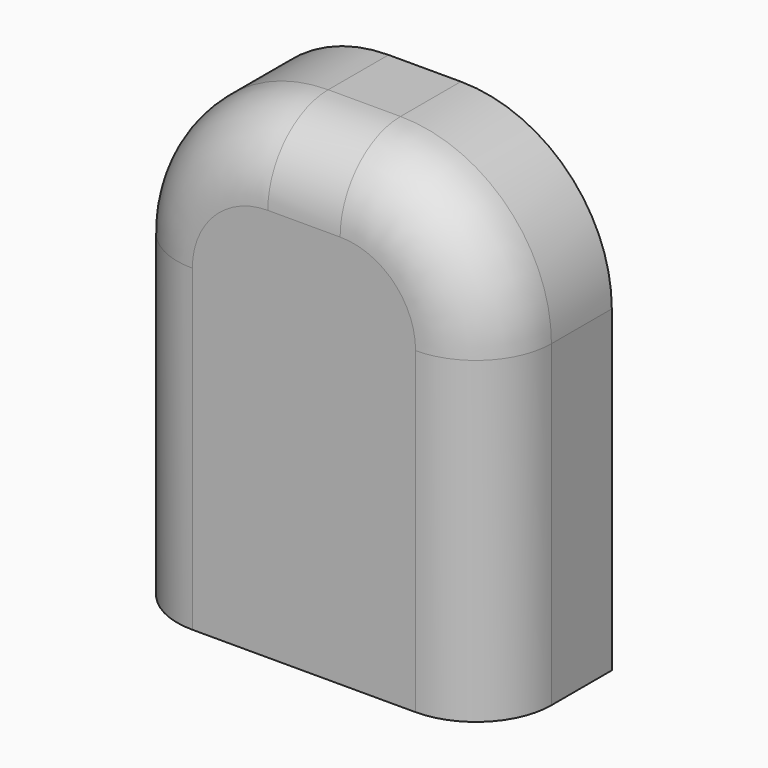
from build123d import *

# Parameters (mm, degrees)
F1_DEPTH = 10.16
F2_R     = 5.08


with BuildPart() as f1:
    # F0 (on Front) → F1 (new body)
    with BuildSketch(Plane.XZ):
        with BuildLine():
            Line((-12.593753, -15.792172), (12.593753, -15.792172))
            Line((12.593753, -15.792172), (12.593753, 5.632172))
            ThreePointArc((12.593753, 5.632172), (9.617958, 12.816377), (2.433753, 15.792172))
            Line((2.433753, 15.792172), (-2.433753, 15.792172))
            ThreePointArc((-2.433753, 15.792172), (-9.617958, 12.816377), (-12.593753, 5.632172))
            Line((-12.593753, 5.632172), (-12.593753, -15.792172))
        make_face()
    extrude(amount=F1_DEPTH)

    # F2
    f2_edges = [f1.edges().sort_by_distance(p)[0] for p in [
        (9.617958, -10.16, 12.816377),
        (12.593753, -10.16, -5.08),
    ]]
    fillet(f2_edges, radius=F2_R)


solid = f1.part
